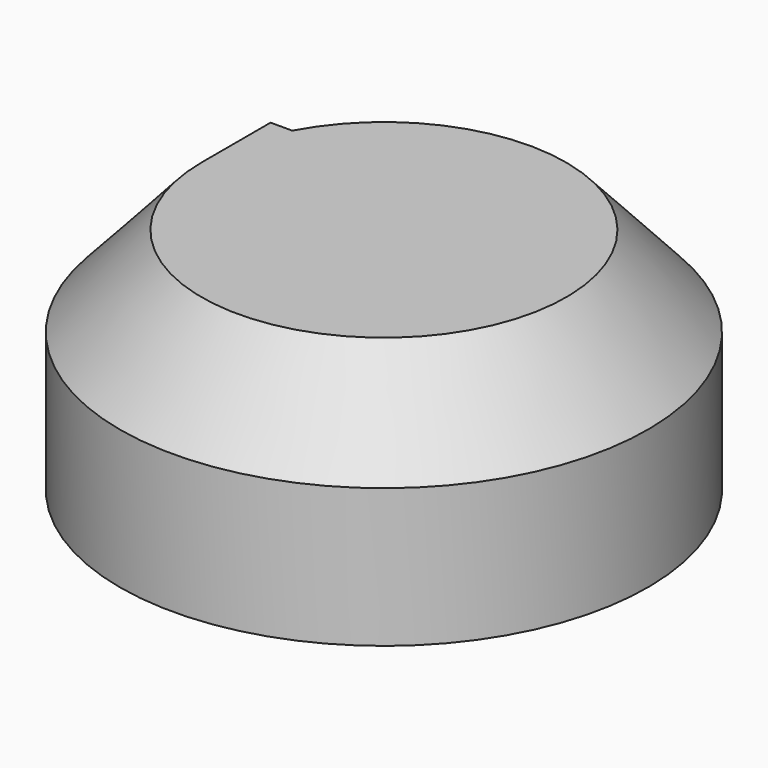
from build123d import *

# Parameters (mm, degrees)
F1_DEPTH   = 25.4
F1_FACE_W  = 25.4
F1_FACE_H  = 44.3220827729
F1_FACE1_W = 30.3635057062
F1_FACE1_H = 17.8439561278


with BuildPart() as f1:
    # F0 (on Front) → F1 (new body)
    with BuildSketch(Plane.XZ):
        Polygon((0, 54.8269934952), (-24.0317806602, 28.3488668501), (0, 28.3488668501), align=None)
        Polygon((0, 28.3488668501), (-24.0317806602, 28.3488668501), (-24.0317806602, -12.5195495784), (0, 10.5049107224), align=None)
        Polygon((0, 54.8269934952), (0, 28.3488668501), (30.3635057062, 28.3488668501), (53.6757707596, 54.8269934952), align=None)
        Polygon((0, 10.5049107224), (-24.0317806602, -12.5195495784), (30.3635057062, -12.5195495784), (30.3635057062, 10.5049107224), align=None)
        Polygon((53.6757707596, 54.8269934952), (30.3635057062, 28.3488668501), (30.3635057062, 10.5049107224), (53.6757707596, 10.5049107224), align=None)
        Polygon((30.3635057062, 10.5049107224), (30.3635057062, -12.5195495784), (53.6757707596, 10.5049107224), align=None)
    extrude(amount=F1_DEPTH)

    # F1_face (on face) + F1_face1 (on face) → F2 (revolve)
    with BuildSketch(Plane(origin=(53.6757707596, -12.7, 32.6659521088), x_dir=(0, 1, 0), z_dir=(1, 0, 0))):
        Rectangle(F1_FACE_W, F1_FACE_H)
    with BuildSketch(Plane(origin=(15.1328731022, -25.4, 21.1555782678), x_dir=(1, 0, 0), z_dir=(0, -1, 0))):
        Polygon((-39.1646537623, -33.6751278462), (15.230632604, -33.6751278462), (38.5428976574, -10.6506675454), (38.5428976574, 33.6714152274), (-15.1328731022, 33.6714152274), (-39.1646537623, 7.1932885823), align=None)
        with Locations((0.0488797509, -1.7286894816)):
            Rectangle(F1_FACE1_W, F1_FACE1_H, mode=Mode.SUBTRACT)
    revolve(axis=Axis((53.6757707596, -25.4, 32.6659521088), (0, 0, 1)))


solid = f1.part
